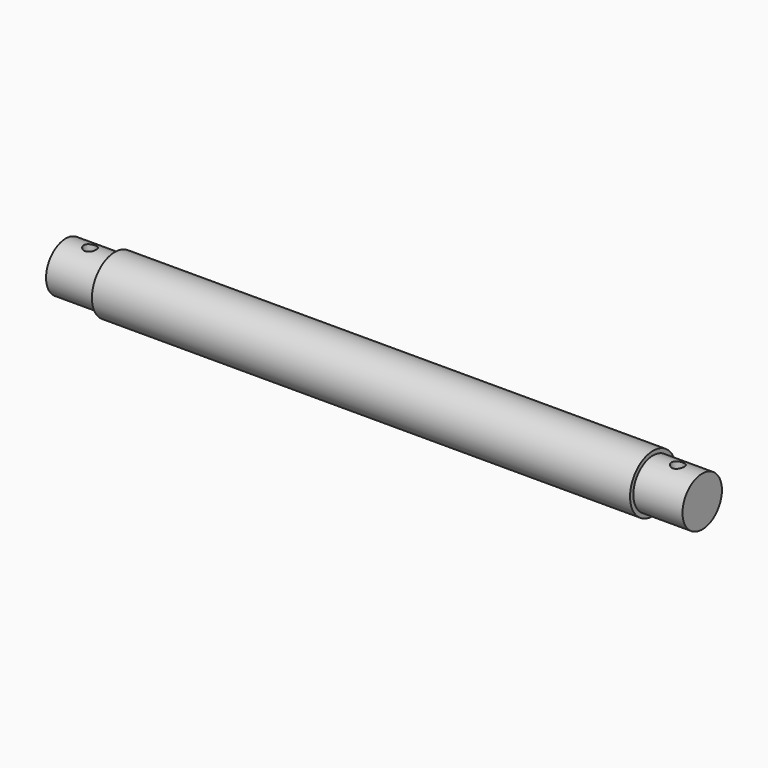
from build123d import *

# Parameters (mm, degrees)
F0_R          = 5.55625
F1_DEPTH      = 52
F1_DEPTH_BACK = 52
F2_R          = 4.7625
F3_DEPTH      = 61.5
F3_DEPTH_BACK = 61.5
F4_R          = 1.2
F5_DEPTH      = 5.55725
F5_DEPTH_BACK = 5.55725


with BuildPart() as f1:
    # F0 (on Right) → F1 (new body, two sides)
    with BuildSketch(Plane.YZ) as f1_sk:
        Circle(F0_R)
    extrude(amount=F1_DEPTH)
    extrude(f1_sk.sketch, amount=-F1_DEPTH_BACK)

    # F2 (on Right) → F3 (join, two sides)
    with BuildSketch(Plane.YZ) as f3_sk:
        Circle(F2_R)
    extrude(amount=F3_DEPTH)
    extrude(f3_sk.sketch, amount=-F3_DEPTH_BACK)

    # F4 (on Top) → F5 (cut, two sides)
    with BuildSketch(Plane.XY) as f5_sk:
        with Locations((-56.8, 0)):
            Circle(F4_R)
        with Locations((56.8, 0)):
            Circle(F4_R)
    extrude(amount=-F5_DEPTH, mode=Mode.SUBTRACT)
    extrude(f5_sk.sketch, amount=F5_DEPTH_BACK, mode=Mode.SUBTRACT)


solid = f1.part
